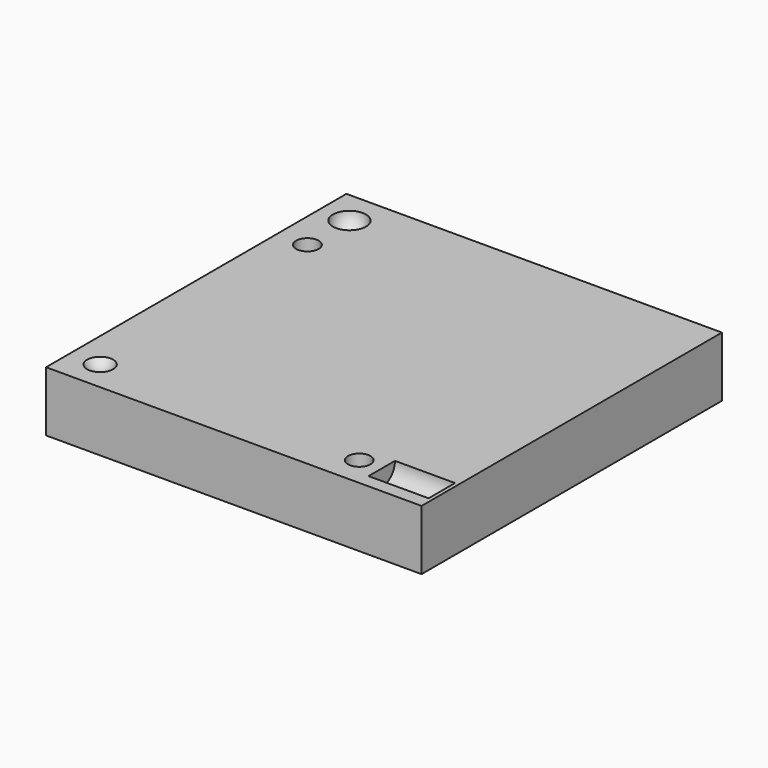
from build123d import *

# Parameters (mm, degrees)
CYLINDER012_R     = 2.2
CYLINDER012_DEPTH = 8
CYLINDER011_R     = 3
CYLINDER011_DEPTH = 4
CYLINDER010_R     = 1.5
CYLINDER010_DEPTH = 8
CYLINDER009_R     = 3
CYLINDER009_DEPTH = 4
CYLINDER008_R     = 1.5
CYLINDER008_DEPTH = 8
BOX002_W          = 50
BOX002_H          = 50
BOX002_DEPTH      = 8


with BuildPart() as cylinder012:
    # Cylinder012 → Cylinder012 (new body)
    with BuildSketch(Plane(origin=(41.5, 4, 8), x_dir=(0, 0, -1), z_dir=(1, 0, 0))):
        Circle(CYLINDER012_R)
    extrude(amount=CYLINDER012_DEPTH)


with BuildPart() as sphere003:
    # Sphere003 → Sphere003 (revolve)
    with BuildSketch(Plane(origin=(4, 45.5, 8.1), x_dir=(1, 0, 0), z_dir=(0, -1, 0))):
        with BuildLine():
            ThreePointArc((0, -2.2), (2.2, 0), (0, 2.2))
            Line((0, 2.2), (0, -2.2))
        make_face()
    revolve(axis=Axis((4, 45.5, 8.1), (0, 0, 1)))


with BuildPart() as sphere001:
    # Sphere001 → Sphere001 (revolve)
    with BuildSketch(Plane(origin=(4, 4, 9), x_dir=(1, 0, 0), z_dir=(0, -1, 0))):
        with BuildLine():
            ThreePointArc((0, -2), (2, 0), (0, 2))
            Line((0, 2), (0, -2))
        make_face()
    revolve(axis=Axis((4, 4, 9), (0, 0, 1)))


with BuildPart() as cylinder011:
    # Cylinder011 → Cylinder011 (new body)
    with BuildSketch(Plane.XY):
        Circle(CYLINDER011_R)
    extrude(amount=CYLINDER011_DEPTH)


with BuildPart() as springhole004:
    # Cylinder010 → Cylinder010 (new body)
    with BuildSketch(Plane.XY):
        Circle(CYLINDER010_R)
    extrude(amount=CYLINDER010_DEPTH)

    # Fusion005: union Cylinder011
    add(cylinder011.part)


with BuildPart() as springhole004_1:
    # Fusion005 placement: moved
    add(springhole004.part.moved(Location((4, 38.5, 0))))


with BuildPart() as cylinder009:
    # Cylinder009 → Cylinder009 (new body)
    with BuildSketch(Plane.XY):
        Circle(CYLINDER009_R)
    extrude(amount=CYLINDER009_DEPTH)


with BuildPart() as springhole003:
    # Cylinder008 → Cylinder008 (new body)
    with BuildSketch(Plane.XY):
        Circle(CYLINDER008_R)
    extrude(amount=CYLINDER008_DEPTH)

    # Fusion004: union Cylinder009
    add(cylinder009.part)


with BuildPart() as springhole003_1:
    # Fusion004 placement: moved
    add(springhole003.part.moved(Location((38.5, 4, 0))))


with BuildPart() as cut012:
    # Box002 → Box002 (new body)
    with BuildSketch(Plane.XY):
        with Locations((25, 25)):
            Rectangle(BOX002_W, BOX002_H)
    extrude(amount=BOX002_DEPTH)

    # Cut008: cut SpringHole003
    add(springhole003_1.part, mode=Mode.SUBTRACT)

    # Cut009: cut SpringHole004
    add(springhole004_1.part, mode=Mode.SUBTRACT)

    # Cut010: cut Sphere001
    add(sphere001.part, mode=Mode.SUBTRACT)

    # Cut011: cut Sphere003
    add(sphere003.part, mode=Mode.SUBTRACT)

    # Cut012: cut Cylinder012
    add(cylinder012.part, mode=Mode.SUBTRACT)


solid = cut012.part
